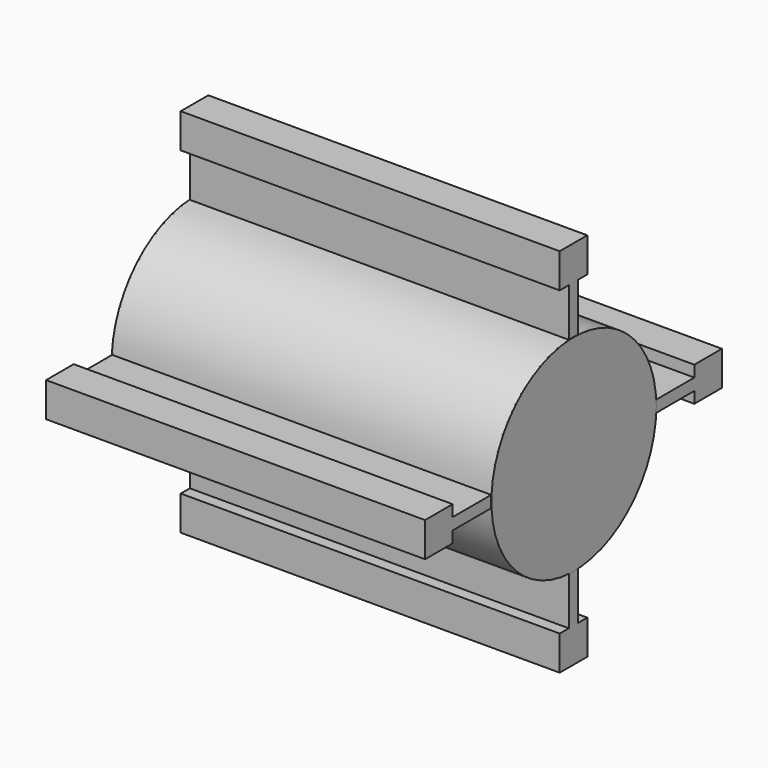
from build123d import *

# Parameters (mm, degrees)
SKETCH001_R  = 272
PAD_DEPTH    = 1
SKETCH_R     = 270
PAD001_DEPTH = 1000
SKETCH002_R  = 272
PAD002_DEPTH = 1


with BuildPart() as pad:
    # Sketch001 → Pad (new body)
    with BuildSketch(Plane.YZ.offset(-500)):
        Circle(SKETCH001_R)
    extrude(amount=-PAD_DEPTH)


with BuildPart() as pad001:
    # Sketch → Pad001 (new body)
    with BuildSketch(Plane.YZ.offset(-500)):
        with BuildLine():
            ThreePointArc((-15.5, 271.558005), (-192.333044, 192.333044), (-271.558005, 15.5))
            Line((-398.558005, 15.5), (-271.558005, 15.5))
            Line((-398.558005, 45.5), (-398.558005, 15.5))
            Line((-489.558005, 45.5), (-398.558005, 45.5))
            Line((-489.558005, -45.5), (-489.558005, 45.5))
            Line((-398.558005, -45.5), (-489.558005, -45.5))
            Line((-398.558005, -15.5), (-398.558005, -45.5))
            Line((-271.558005, -15.5), (-398.558005, -15.5))
            ThreePointArc((-271.558005, -15.5), (-192.333044, -192.333044), (-15.5, -271.558005))
            Line((-15.5, -398.558005), (-15.5, -271.558005))
            Line((-45.5, -398.558005), (-15.5, -398.558005))
            Line((-45.5, -489.558005), (-45.5, -398.558005))
            Line((45.5, -489.558005), (-45.5, -489.558005))
            Line((45.5, -398.558005), (45.5, -489.558005))
            Line((15.5, -398.558005), (45.5, -398.558005))
            Line((15.5, -271.558005), (15.5, -398.558005))
            ThreePointArc((15.5, -271.558005), (192.333044, -192.333044), (271.558005, -15.5))
            Line((398.558005, -15.5), (271.558005, -15.5))
            Line((398.558005, -45.5), (398.558005, -15.5))
            Line((489.558005, -45.5), (398.558005, -45.5))
            Line((489.558005, 45.5), (489.558005, -45.5))
            Line((398.558005, 45.5), (489.558005, 45.5))
            Line((398.558005, 15.5), (398.558005, 45.5))
            Line((271.558005, 15.5), (398.558005, 15.5))
            ThreePointArc((271.558005, 15.5), (192.333044, 192.333044), (15.5, 271.558005))
            Line((15.5, 398.558005), (15.5, 271.558005))
            Line((45.5, 398.558005), (15.5, 398.558005))
            Line((45.5, 489.558005), (45.5, 398.558005))
            Line((-45.5, 489.558005), (45.5, 489.558005))
            Line((-45.5, 398.558005), (-45.5, 489.558005))
            Line((-15.5, 398.558005), (-45.5, 398.558005))
            Line((-15.5, 271.558005), (-15.5, 398.558005))
        make_face()
        Circle(SKETCH_R, mode=Mode.SUBTRACT)
    extrude(amount=PAD001_DEPTH)


with BuildPart() as pad002:
    # Sketch002 → Pad002 (new body)
    with BuildSketch(Plane.YZ.offset(500)):
        Circle(SKETCH002_R)
    extrude(amount=PAD002_DEPTH)


solid = Compound([pad.part, pad001.part, pad002.part])
